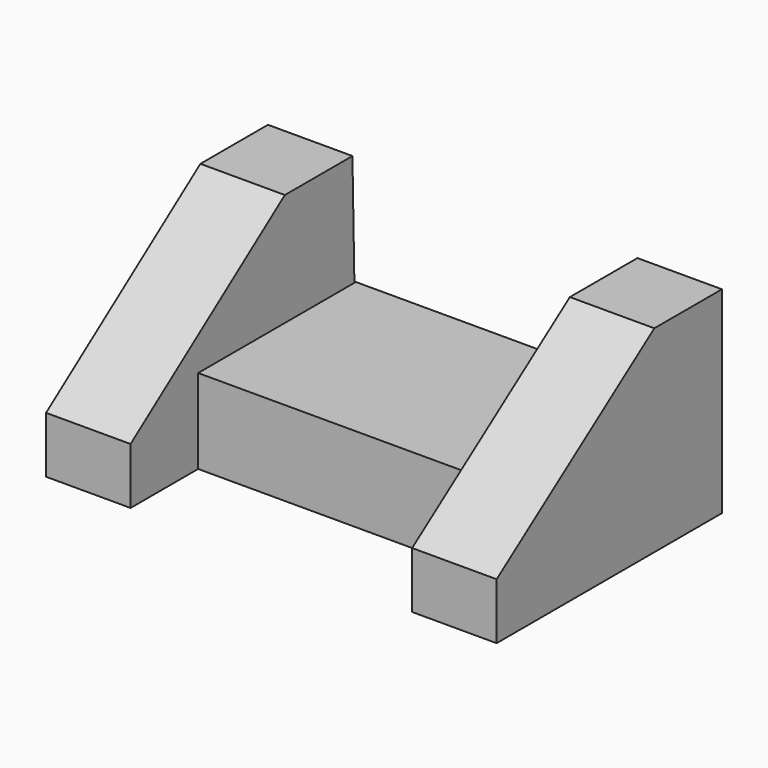
from build123d import *

# Parameters (mm, degrees)
F1_DEPTH = 19.05
F2_W     = 44.45
F2_H     = 19.05
F3_DEPTH = 63.5
F5_DEPTH = 19.05


with BuildPart() as f1:
    # F0 (on Right) → F1 (new body)
    with BuildSketch(Plane.YZ):
        Polygon((0.958807, 20.364464), (-43.491193, -11.385536), (-43.491193, -24.085536), (20.008807, -24.085536), (20.008807, 20.364464), align=None)
    extrude(amount=F1_DEPTH)

    # F2 (on face) → F3 (join)
    with BuildSketch(Plane(origin=(0, 0, 0), x_dir=(0, -1, 0), z_dir=(-1, 0, 0))):
        with Locations((2.216193, -14.560536)):
            Rectangle(F2_W, F2_H)
    extrude(amount=F3_DEPTH)

    # F4 (on face) → F5 (join)
    with BuildSketch(Plane(origin=(-63.5, 0, 0), x_dir=(0, -1, 0), z_dir=(-1, 0, 0))):
        Polygon((24.441193, -5.035536), (24.441193, -24.085536), (43.491193, -24.085536), (43.491193, -11.385536), (0, 20.364464), (-19.05, 20.364464), (-19.59789, -5.035536), align=None)
        Polygon((-19.59789, -5.035536), (-20.008807, -24.085536), (24.441193, -24.085536), (24.441193, -5.035536), align=None)
    extrude(amount=F5_DEPTH)


solid = f1.part
